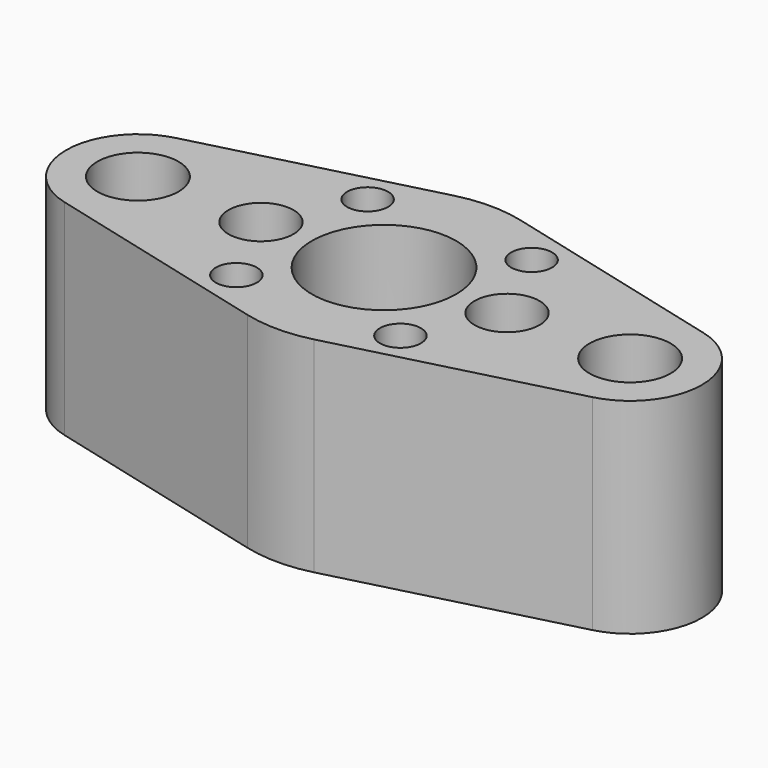
from build123d import *

# Parameters (mm, degrees)
F0_R     = 3.175
F0_R_2   = 6.2865
F0_R_3   = 5.0419
F0_R_4   = 11.176
F1_DEPTH = 31.75


with BuildPart() as f1:
    # F0 (on Top) → F1 (new body)
    with BuildSketch(Plane.XY):
        with BuildLine():
            Line((-5.159375, 19.982173), (-40.878125, 10.759632))
            ThreePointArc((-40.878125, 10.759632), (-49.2125, 0), (-40.878125, -10.759632))
            Line((-40.878125, -10.759632), (-5.159375, -19.982173))
            ThreePointArc((-5.159375, -19.982173), (0, -20.6375), (5.159375, -19.982173))
            Line((5.159375, -19.982173), (40.878125, -10.759632))
            ThreePointArc((40.878125, -10.759632), (49.2125, 0), (40.878125, 10.759632))
            Line((40.878125, 10.759632), (5.159375, 19.982173))
            ThreePointArc((5.159375, 19.982173), (0, 20.6375), (-5.159375, 19.982173))
        make_face()
        with Locations((-12.7, -12.7)):
            Circle(F0_R, mode=Mode.SUBTRACT)
        with Locations((12.7, -12.7)):
            Circle(F0_R, mode=Mode.SUBTRACT)
        with Locations((-38.1, 0)):
            Circle(F0_R_2, mode=Mode.SUBTRACT)
        with Locations((-19.05, 0)):
            Circle(F0_R_3, mode=Mode.SUBTRACT)
        with Locations((-12.7, 12.7)):
            Circle(F0_R, mode=Mode.SUBTRACT)
        Circle(F0_R_4, mode=Mode.SUBTRACT)
        with Locations((19.05, 0)):
            Circle(F0_R_3, mode=Mode.SUBTRACT)
        with Locations((38.1, 0)):
            Circle(F0_R_2, mode=Mode.SUBTRACT)
        with Locations((12.7, 12.7)):
            Circle(F0_R, mode=Mode.SUBTRACT)
    extrude(amount=F1_DEPTH)


solid = f1.part
